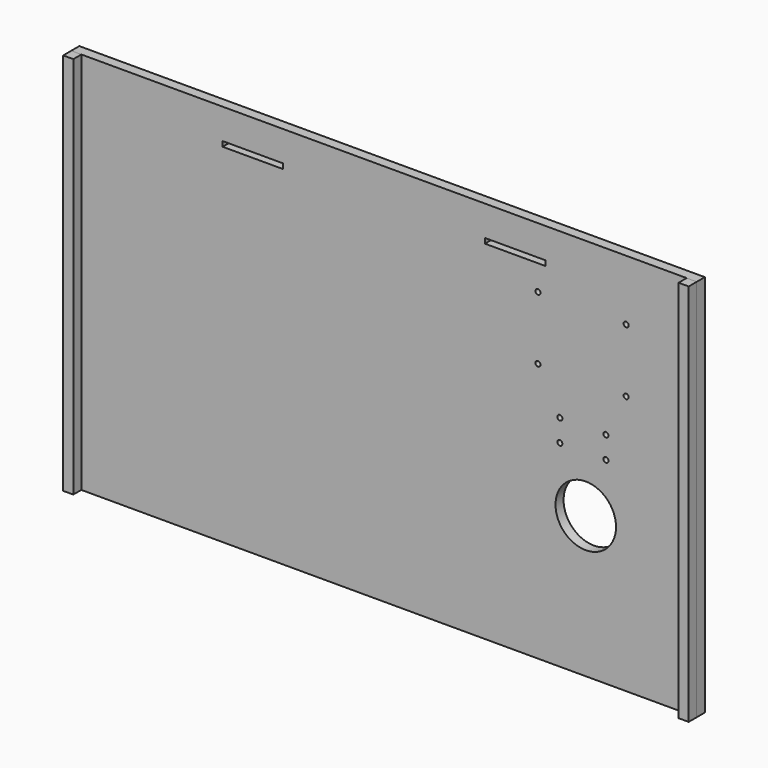
from build123d import *

# Parameters (mm, degrees)
F0_W     = 12.7
F0_H     = 482.6
F1_DEPTH = 25.4
F0_W_2   = 762
F0_R     = 38.1
F0_W_3   = 76.2
F0_H_2   = 6.35
F0_R_2   = 3.175
F2_DEPTH = 12.7


with BuildPart() as f1:
    # F0 (on Front) → F1 (new body)
    with BuildSketch(Plane.XZ):
        with Locations((-289.704832, 85.620722)):
            Rectangle(F0_W, F0_H)
        with Locations((484.995168, 85.620722)):
            Rectangle(F0_W, F0_H)
    extrude(amount=F1_DEPTH)


with BuildPart() as f2:
    # F0 (on Front) → F2 (new body)
    with BuildSketch(Plane.XZ):
        with Locations((-289.704832, 85.620722)):
            Rectangle(F0_W, F0_H)
        with Locations((97.645168, 85.620722)):
            Rectangle(F0_W_2, F0_H)
        with Locations((351.645168, 22.120722)):
            Circle(F0_R, mode=Mode.SUBTRACT)
        with Locations((-67.454832, 285.645722)):
            Rectangle(F0_W_3, F0_H_2, mode=Mode.SUBTRACT)
        with Locations((291.495174, 171.04717)):
            Circle(F0_R_2, mode=Mode.SUBTRACT)
        with Locations((319.045284, 92.329421)):
            Circle(F0_R_2, mode=Mode.SUBTRACT)
        with Locations((377.045168, 92.329421)):
            Circle(F0_R_2, mode=Mode.SUBTRACT)
        with Locations((319.045284, 120.24717)):
            Circle(F0_R_2, mode=Mode.SUBTRACT)
        with Locations((377.045168, 120.24717)):
            Circle(F0_R_2, mode=Mode.SUBTRACT)
        with Locations((402.445168, 171.04717)):
            Circle(F0_R_2, mode=Mode.SUBTRACT)
        with Locations((291.495174, 250.720722)):
            Circle(F0_R_2, mode=Mode.SUBTRACT)
        with Locations((262.745168, 285.645722)):
            Rectangle(F0_W_3, F0_H_2, mode=Mode.SUBTRACT)
        with Locations((402.445168, 250.720722)):
            Circle(F0_R_2, mode=Mode.SUBTRACT)
        with Locations((484.995168, 85.620722)):
            Rectangle(F0_W, F0_H)
    extrude(amount=F2_DEPTH)


solid = Compound([f1.part, f2.part])
